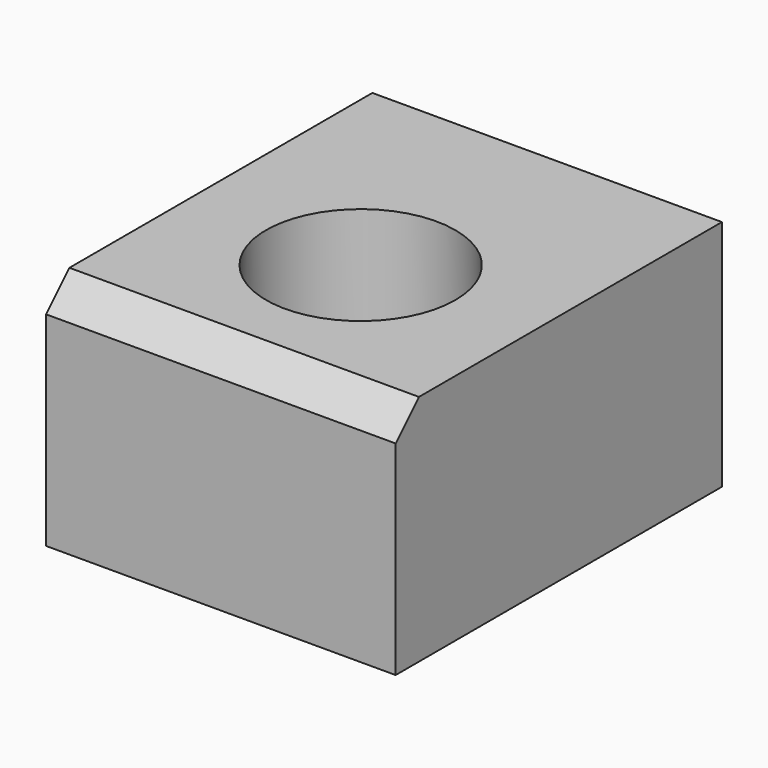
from build123d import *

# Parameters (mm, degrees)
F0_W           = 12
F0_H           = 14
F1_DEPTH       = 8
F2_SIZE        = 1
F4_D           = 3.4
F4_DEPTH       = 10
F4_CBORE_D     = 6.5
F4_CBORE_DEPTH = 3.4


with BuildPart() as f1:
    # F0 (on Top) → F1 (new body)
    with BuildSketch(Plane.XY):
        Rectangle(F0_W, F0_H)
    extrude(amount=F1_DEPTH)

    # F2
    f2_edges = [f1.edges().sort_by_distance(p)[0] for p in [
        (0, -7, 8),
    ]]
    chamfer(f2_edges, length=F2_SIZE)

    # F4
    with Locations(Plane.XY.offset(8)):
        with Locations((0, -1)):
            CounterBoreHole(F4_D / 2, F4_CBORE_D / 2, F4_CBORE_DEPTH, depth=F4_DEPTH)


solid = f1.part
